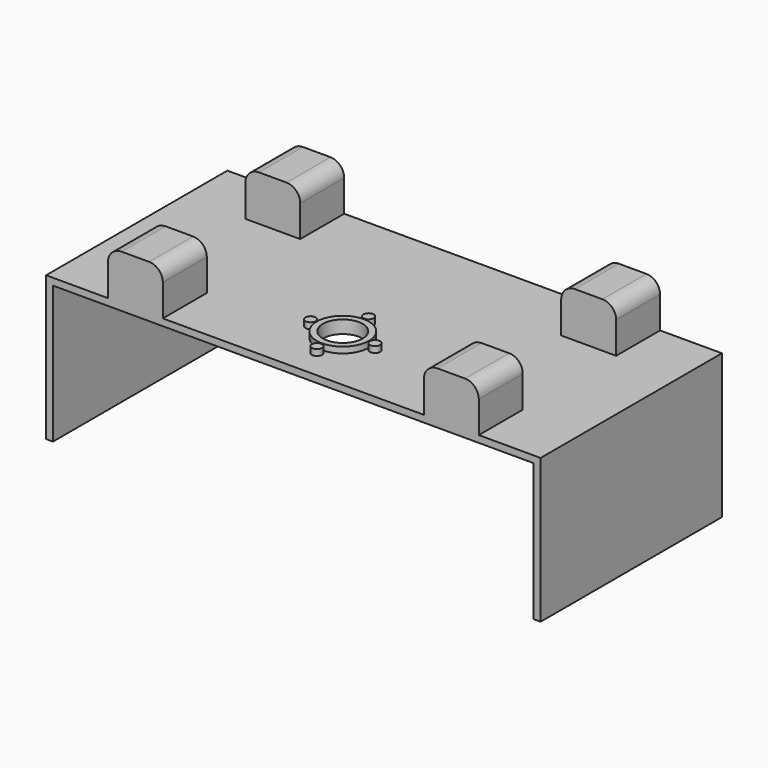
from build123d import *

# Parameters (mm, degrees)
F0_W     = 914.4
F0_H     = 419.1
F1_DEPTH = 12.7
F2_R     = 36.83
F3_DEPTH = 12.7
F4_R     = 9.525
F5_DEPTH = 11.176
F6_W     = 101.6
F6_H     = 101.6
F7_DEPTH = 83.82
F8_W     = 12.7
F8_H     = 419.1
F9_DEPTH = 254
F10_R    = 25.4


with BuildPart() as f1:
    # F0 (on Top) → F1 (new body)
    with BuildSketch(Plane.XY):
        with Locations((0, 95.25)):
            Rectangle(F0_W, F0_H)
    extrude(amount=F1_DEPTH)

    # F2 (on face) → F3 (cut)
    with BuildSketch(Plane.XY.offset(12.7)):
        Circle(F2_R)
    extrude(amount=-F3_DEPTH, mode=Mode.SUBTRACT)

    # F4 (on face) → F5 (join)
    with BuildSketch(Plane.XY.offset(12.7)):
        with BuildLine():
            ThreePointArc((9.525, 59.69), (-6.7351920908, 66.4251920908), (0, 50.165))
            ThreePointArc((0, 50.165), (6.7351920908, 52.9548079092), (9.525, 59.69))
        make_face()
        with BuildLine():
            Line((36.83, 0), (48.26, 0))
            ThreePointArc((48.26, 0), (34.1249732601, 34.1249732601), (0, 48.26))
            Line((0, 48.26), (0, 36.83))
            ThreePointArc((0, 36.83), (26.0427427511, 26.0427427511), (36.83, 0))
        make_face()
        with BuildLine():
            Line((0, 36.83), (0, 48.26))
            ThreePointArc((0, 48.26), (-34.1249732601, 34.1249732601), (-48.26, 0))
            Line((-48.26, 0), (-36.83, 0))
            ThreePointArc((-36.83, 0), (-26.0427427511, 26.0427427511), (0, 36.83))
        make_face()
        with BuildLine():
            ThreePointArc((-48.26, 0), (-34.1249732601, -34.1249732601), (0, -48.26))
            Line((0, -48.26), (0, -36.83))
            ThreePointArc((0, -36.83), (-26.0427427511, -26.0427427511), (-36.83, 0))
            Line((-36.83, 0), (-48.26, 0))
        make_face()
        with BuildLine():
            ThreePointArc((0, -48.26), (34.1249732601, -34.1249732601), (48.26, 0))
            Line((48.26, 0), (36.83, 0))
            ThreePointArc((36.83, 0), (26.0427427511, -26.0427427511), (0, -36.83))
            Line((0, -36.83), (0, -48.26))
        make_face()
        with Locations((-59.69, 0)):
            Circle(F4_R)
        with BuildLine():
            ThreePointArc((9.525, -59.69), (6.7351920908, -52.9548079092), (0, -50.165))
            ThreePointArc((0, -50.165), (-6.7351920908, -66.4251920908), (9.525, -59.69))
        make_face()
        with BuildLine():
            ThreePointArc((69.215, 0), (59.69, 9.525), (50.165, 0))
            ThreePointArc((50.165, 0), (59.69, -9.525), (69.215, 0))
        make_face()
    extrude(amount=F5_DEPTH)

    # F6 (on face) → F7 (join)
    with BuildSketch(Plane.XY.offset(12.7)):
        with Locations((-292.1, 254)):
            Rectangle(F6_W, F6_H)
        with Locations((-292.1, -63.5)):
            Rectangle(F6_W, F6_H)
        with Locations((292.1, -63.5)):
            Rectangle(F6_W, F6_H)
        with Locations((292.1, 254)):
            Rectangle(F6_W, F6_H)
    extrude(amount=F7_DEPTH)

    # F8 (on face) → F9 (join)
    with BuildSketch(Plane(origin=(0, 0, 0), x_dir=(1, 0, 0), z_dir=(0, 0, -1))):
        with Locations((-450.85, -95.25)):
            Rectangle(F8_W, F8_H)
        with Locations((450.85, -95.25)):
            Rectangle(F8_W, F8_H)
    extrude(amount=F9_DEPTH)

    # F10
    f10_edges = [f1.edges().sort_by_distance(p)[0] for p in [
        (-342.9, -63.5, 96.52),
        (-342.9, 254, 96.52),
        (-241.3, 254, 96.52),
        (-241.3, -63.5, 96.52),
        (241.3, -63.5, 96.52),
        (241.3, 254, 96.52),
        (342.9, 254, 96.52),
        (342.9, -63.5, 96.52),
    ]]
    fillet(f10_edges, radius=F10_R)


solid = f1.part
